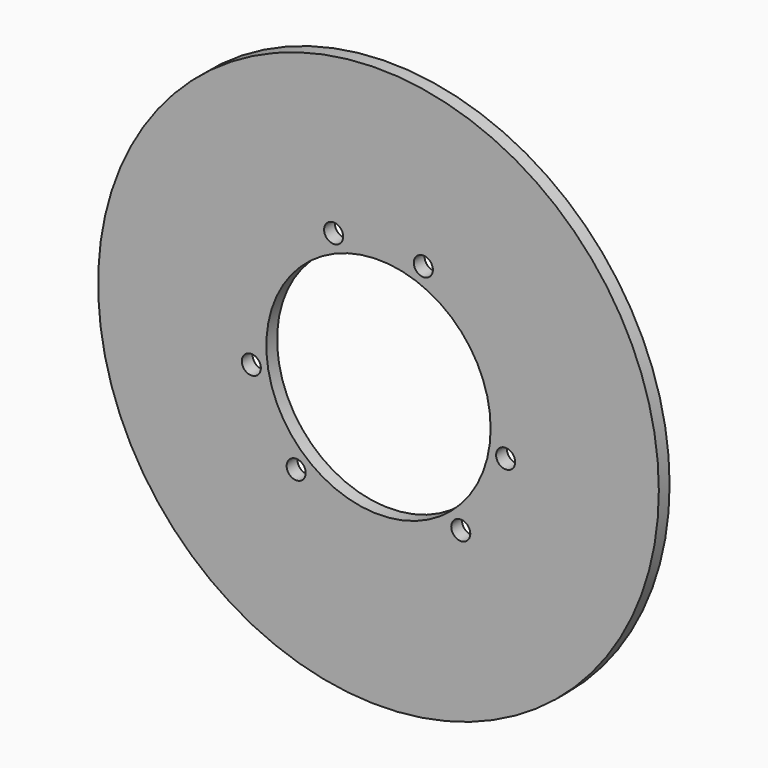
from build123d import *

# Parameters (mm, degrees)
F0_R     = 125
F0_R_2   = 50
F1_DEPTH = 3
F3_D     = 8.5


with BuildPart() as f1:
    # F0 (on Front) → F1 (new body, symmetric)
    with BuildSketch(Plane.XZ):
        Circle(F0_R)
        Circle(F0_R_2, mode=Mode.SUBTRACT)
    extrude(amount=F1_DEPTH, both=True)

    # F3 (through all)
    with Locations(Plane.XZ.offset(3)):
        with Locations((-20, 53.909647), (20, 53.909647), (56.687123, -9.634315), (36.687123, -44.275331), (-36.687123, -44.275331), (-56.687123, -9.634315)):
            Hole(F3_D / 2)


solid = f1.part
